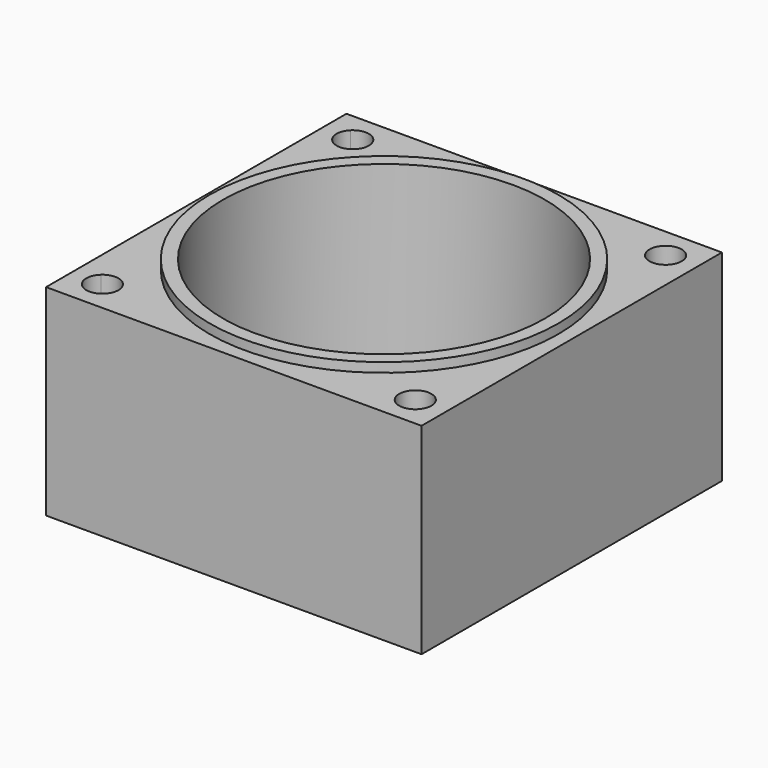
from build123d import *

# Parameters (mm, degrees)
F0_W     = 140
F0_H     = 140
F0_R     = 60
F1_DEPTH = 75
F2_R     = 65
F2_R_2   = 60
F3_DEPTH = 3.5
F4_R     = 65
F4_R_2   = 50
F5_DEPTH = 3.5
F7_DEPTH = 75.001


with BuildPart() as f1:
    # F0 (on Top) → F1 (new body)
    with BuildSketch(Plane.XY):
        Rectangle(F0_W, F0_H)
        Circle(F0_R, mode=Mode.SUBTRACT)
    extrude(amount=F1_DEPTH)

    # F2 (on face) → F3 (join)
    with BuildSketch(Plane.XY.offset(75)):
        Circle(F2_R)
        Circle(F2_R_2, mode=Mode.SUBTRACT)
    extrude(amount=F3_DEPTH)

    # F4 (on face) → F5 (cut)
    with BuildSketch(Plane(origin=(0, 0, 0), x_dir=(1, 0, 0), z_dir=(0, 0, -1))):
        Circle(F4_R)
        Circle(F4_R_2, mode=Mode.SUBTRACT)
    extrude(amount=-F5_DEPTH, mode=Mode.SUBTRACT)

    # F6 (on face) → F7 (cut, through all)
    with BuildSketch(Plane.XY.offset(75)):
        with BuildLine():
            ThreePointArc((-58.3363094479, 58.3363094479), (-56.1764068849, 60.419047572), (-53.9421968972, 62.4218663122))
            ThreePointArc((-53.9421968972, 62.4218663122), (-58.2272004968, 64.3353173023), (-62.578950135, 62.578950135))
            Line((-62.578950135, 62.578950135), (-58.3363094479, 58.3363094479))
        make_face()
        with BuildLine():
            ThreePointArc((-52.3363094479, 58.3363094479), (-52.752194688, 60.5312268377), (-53.9421968972, 62.4218663122))
            ThreePointArc((-53.9421968972, 62.4218663122), (-56.1764068849, 60.419047572), (-58.3363094479, 58.3363094479))
            Line((-58.3363094479, 58.3363094479), (-54.0936687608, 54.0936687608))
            ThreePointArc((-54.0936687608, 54.0936687608), (-52.7930322528, 56.0402088537), (-52.3363094479, 58.3363094479))
        make_face()
        with BuildLine():
            Line((-54.0936687608, 54.0936687608), (-58.3363094479, 58.3363094479))
            ThreePointArc((-58.3363094479, 58.3363094479), (-60.419047572, 56.1764068849), (-62.4218663122, 53.9421968972))
            ThreePointArc((-62.4218663122, 53.9421968972), (-58.2272004968, 52.3373015935), (-54.0936687608, 54.0936687608))
        make_face()
        with BuildLine():
            ThreePointArc((-62.4218663122, 53.9421968972), (-60.419047572, 56.1764068849), (-58.3363094479, 58.3363094479))
            Line((-58.3363094479, 58.3363094479), (-62.578950135, 62.578950135))
            ThreePointArc((-62.578950135, 62.578950135), (-64.3353173023, 58.2272004968), (-62.4218663122, 53.9421968972))
        make_face()
        with BuildLine():
            ThreePointArc((53.9421968972, 62.4218663122), (58.3363094479, 58.3363094479), (62.4218663122, 53.9421968972))
            ThreePointArc((62.4218663122, 53.9421968972), (63.836915832, 55.9397850047), (64.3363094479, 58.3363094479))
            ThreePointArc((64.3363094479, 58.3363094479), (60.5312268377, 63.9204242078), (53.9421968972, 62.4218663122))
        make_face()
        with BuildLine():
            ThreePointArc((53.9421968972, 62.4218663122), (54.0936687608, 54.0936687608), (62.4218663122, 53.9421968972))
            ThreePointArc((62.4218663122, 53.9421968972), (58.3363094479, 58.3363094479), (53.9421968972, 62.4218663122))
        make_face()
        with BuildLine():
            ThreePointArc((64.3363094479, -58.3363094479), (63.836915832, -55.9397850047), (62.4218663122, -53.9421968972))
            ThreePointArc((62.4218663122, -53.9421968972), (58.3363094479, -58.3363094479), (53.9421968972, -62.4218663122))
            ThreePointArc((53.9421968972, -62.4218663122), (60.5312268377, -63.9204242078), (64.3363094479, -58.3363094479))
        make_face()
        with BuildLine():
            ThreePointArc((53.9421968972, -62.4218663122), (58.3363094479, -58.3363094479), (62.4218663122, -53.9421968972))
            ThreePointArc((62.4218663122, -53.9421968972), (54.0936687608, -54.0936687608), (53.9421968972, -62.4218663122))
        make_face()
        with BuildLine():
            ThreePointArc((-62.4218663122, -53.9421968972), (-62.578950135, -62.578950135), (-53.9421968972, -62.4218663122))
            ThreePointArc((-53.9421968972, -62.4218663122), (-58.3363094479, -58.3363094479), (-62.4218663122, -53.9421968972))
        make_face()
        with BuildLine():
            ThreePointArc((-62.4218663122, -53.9421968972), (-58.3363094479, -58.3363094479), (-53.9421968972, -62.4218663122))
            ThreePointArc((-53.9421968972, -62.4218663122), (-52.752194688, -60.5312268377), (-52.3363094479, -58.3363094479))
            ThreePointArc((-52.3363094479, -58.3363094479), (-55.9397850047, -52.8357030638), (-62.4218663122, -53.9421968972))
        make_face()
    extrude(amount=-F7_DEPTH, mode=Mode.SUBTRACT)


solid = f1.part
